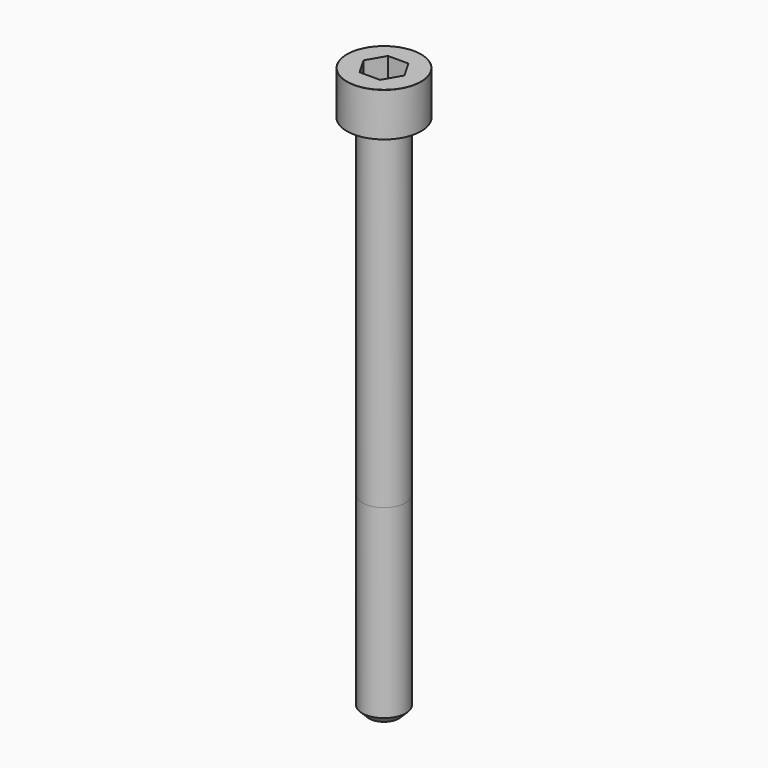
from build123d import *

# Parameters (mm, degrees)
POCKET_DEPTH = 4.06


with BuildPart() as part:
    # Sketch → Revolve (revolve)
    with BuildSketch(Plane.YZ):
        with BuildLine():
            Line((2.499, 0), (4.25, 0))
            Line((4.25, 0), (4.25, 4.97229))
            ThreePointArc((4.25, 4.97229), (4.241884, 4.991884), (4.22229, 5))
            Line((4.22229, 5), (0, 5))
            Line((0, -60), (0, 5))
            Line((1.7, -60), (0, -60))
            Line((2.5, -59.2), (1.7, -60))
            Line((2.5, -38), (2.5, -59.2))
            Line((2.499, 0), (2.5, -38))
        make_face()
    revolve(axis=Axis((0, 0, 0), (0, 0, 1)))

    # Sketch001 → Pocket (cut)
    with BuildSketch(Plane.XY.offset(5)):
        Polygon((2.344042, 0), (1.172021, 2.03), (-1.172021, 2.03), (-2.344042, 0), (-1.172021, -2.03), (1.172021, -2.03), align=None)
    extrude(amount=-POCKET_DEPTH, mode=Mode.SUBTRACT)


solid = part.part
